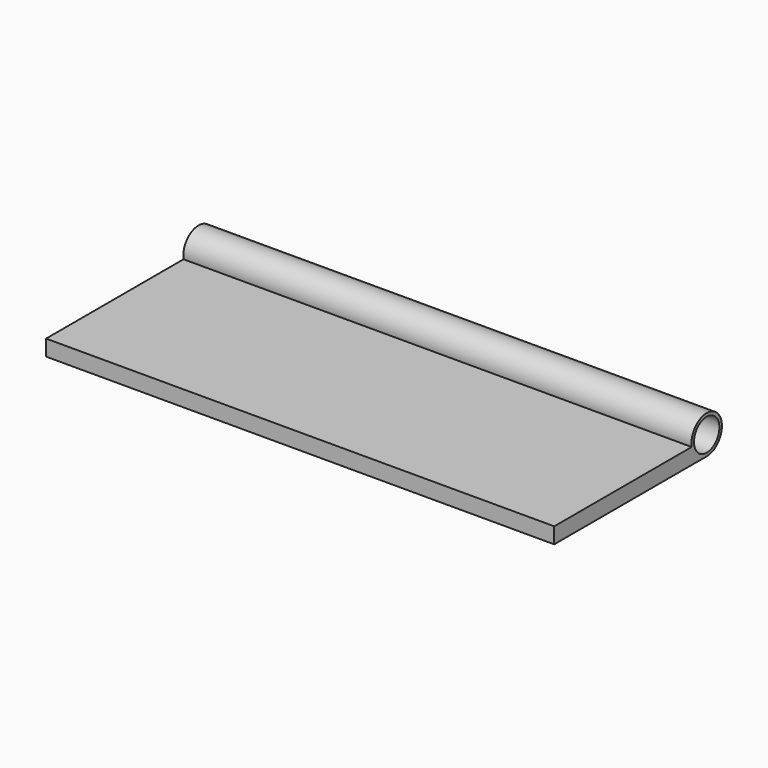
from build123d import *

# Parameters (mm, degrees)
F0_W     = 101.6
F0_H     = 38.1
F1_DEPTH = 3.175
F3_DEPTH = 254
F2_R     = 3.81
F2_R_2   = 3.175
F4_DEPTH = 101.6


with BuildPart() as f1:
    # F0 (on Top) → F1 (new body)
    with BuildSketch(Plane.XY):
        with Locations((-50.8, -19.05)):
            Rectangle(F0_W, F0_H)
    extrude(amount=F1_DEPTH)

    # F2 (on face) → F3 (cut)
    with BuildSketch(Plane(origin=(-101.6, 0, 0), x_dir=(0, -1, 0), z_dir=(-1, 0, 0))):
        with BuildLine():
            ThreePointArc((3.7567106623, 3.175), (3.7966542918, 3.4913839483), (3.81, 3.81))
            ThreePointArc((3.81, 3.81), (-2.6940768363, 6.5040768363), (0, 0))
            Line((0, 0), (0, 0.635))
            ThreePointArc((0, 0.635), (-2.2450640303, 6.0550640303), (3.175, 3.81))
            ThreePointArc((3.175, 3.81), (3.1589222858, 3.4908840456), (3.1108519733, 3.175))
            Line((3.1108519733, 3.175), (3.7567106623, 3.175))
        make_face()
        with BuildLine():
            Line((0, 0.635), (0, 0))
            ThreePointArc((0, 0), (2.4593444248, 0.9000644337), (3.7567106623, 3.175))
            Line((3.7567106623, 3.175), (3.1108519733, 3.175))
            ThreePointArc((3.1108519733, 3.175), (2.0080463142, 1.3506555752), (0, 0.635))
        make_face()
        with BuildLine():
            Line((0, 3.175), (0, 0.635))
            ThreePointArc((0, 0.635), (2.0080463142, 1.3506555752), (3.1108519733, 3.175))
            Line((3.1108519733, 3.175), (0, 3.175))
        make_face()
    extrude(amount=-F3_DEPTH, mode=Mode.SUBTRACT)

    # F2 (on face) → F4 (join, through all)
    with BuildSketch(Plane(origin=(-101.6, 0, 0), x_dir=(0, -1, 0), z_dir=(-1, 0, 0))):
        with Locations((0, 3.81)):
            Circle(F2_R)
        with Locations((0, 3.81)):
            Circle(F2_R_2, mode=Mode.SUBTRACT)
    extrude(amount=-F4_DEPTH)


solid = f1.part
